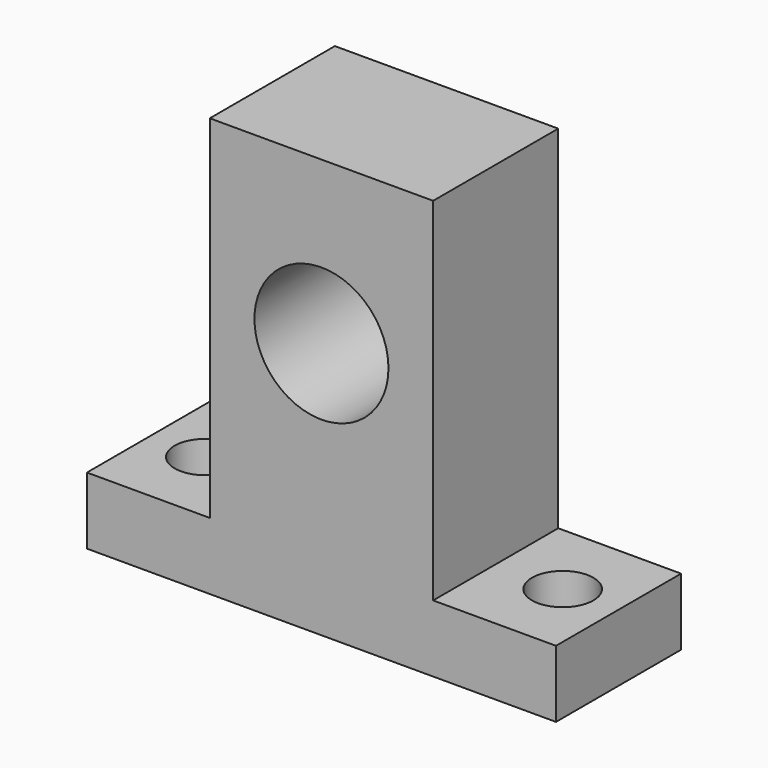
from build123d import *

# Parameters (mm, degrees)
F1_DEPTH = 7
F2_R     = 6
F3_DEPTH = 14.001
F4_R     = 2.75
F5_DEPTH = 6.001


with BuildPart() as f1:
    # F0 (on Front) → F1 (new body, symmetric)
    with BuildSketch(Plane.XZ):
        Polygon((-21, 0), (0, 0), (21, 0), (21, 6), (10, 6), (10, 37.5), (0, 37.5), (-10, 37.5), (-10, 6), (-21, 6), align=None)
    extrude(amount=F1_DEPTH, both=True)

    # F2 (on face) → F3 (cut, through all)
    with BuildSketch(Plane.XZ.offset(7)):
        with Locations((0, 23)):
            Circle(F2_R)
    extrude(amount=-F3_DEPTH, mode=Mode.SUBTRACT)

    # F4 (on face) → F5 (cut, through all)
    with BuildSketch(Plane.XY.offset(6)):
        with Locations((-16, 0)):
            Circle(F4_R)
        with Locations((16, 0)):
            Circle(F4_R)
    extrude(amount=-F5_DEPTH, mode=Mode.SUBTRACT)


solid = f1.part
